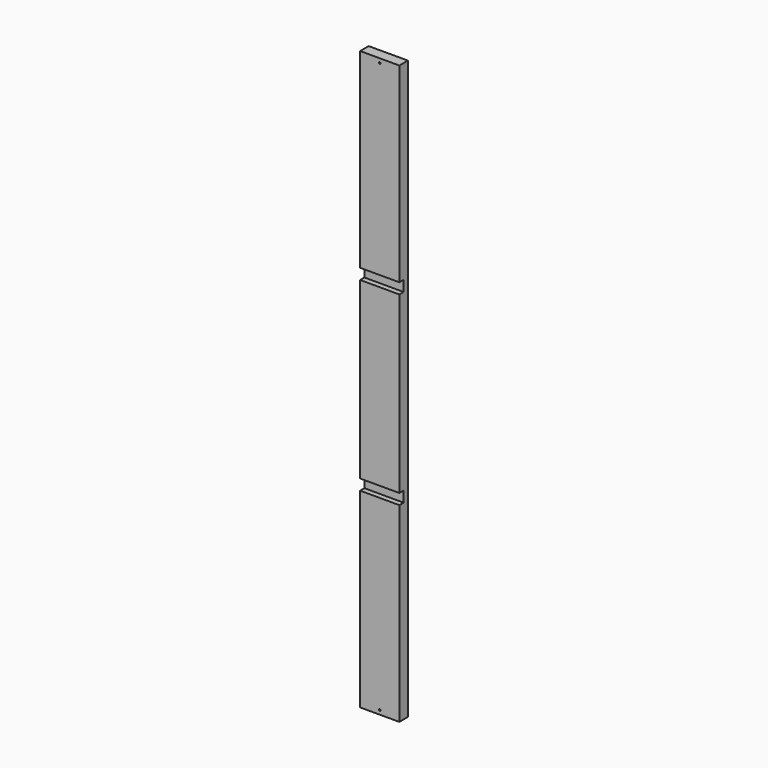
from build123d import *

# Parameters (mm, degrees)
F0_W     = 139.7
F0_H     = 38.1
F1_DEPTH = 2057.4
F2_W     = 19.05
F2_H     = 38.1
F3_DEPTH = 139.7
F5_DEPTH = 6.35
F7_DEPTH = 6.35


with BuildPart() as f1:
    # F0 (on Top) → F1 (new body)
    with BuildSketch(Plane.XY):
        Rectangle(F0_W, F0_H)
    extrude(amount=F1_DEPTH)

    # F2 (on face) → F3 (cut)
    with BuildSketch(Plane.YZ.offset(69.85)):
        with Locations((-9.525, 698.5)):
            Rectangle(F2_W, F2_H)
        with Locations((-9.525, 1358.9)):
            Rectangle(F2_W, F2_H)
    extrude(amount=-F3_DEPTH, mode=Mode.SUBTRACT)

    # F4 (on face) → F5 (cut)
    with BuildSketch(Plane.XZ.offset(19.05)):
        with BuildLine():
            ThreePointArc((-3.175, 2042.8458), (0, 2039.6708), (3.175, 2042.8458))
            Line((3.175, 2042.8458), (-3.175, 2042.8458))
        make_face()
        with BuildLine():
            Line((-3.175, 2042.8458), (3.175, 2042.8458))
            ThreePointArc((3.175, 2042.8458), (0, 2046.0208), (-3.175, 2042.8458))
        make_face()
    extrude(amount=-F5_DEPTH, mode=Mode.SUBTRACT)

    # F6 (on face) → F7 (cut)
    with BuildSketch(Plane.XZ.offset(19.05)):
        with BuildLine():
            ThreePointArc((-3.175, 14.5542), (0, 11.3792), (3.175, 14.5542))
            Line((3.175, 14.5542), (-3.175, 14.5542))
        make_face()
        with BuildLine():
            Line((-3.175, 14.5542), (3.175, 14.5542))
            ThreePointArc((3.175, 14.5542), (0, 17.7292), (-3.175, 14.5542))
        make_face()
    extrude(amount=-F7_DEPTH, mode=Mode.SUBTRACT)


solid = f1.part
